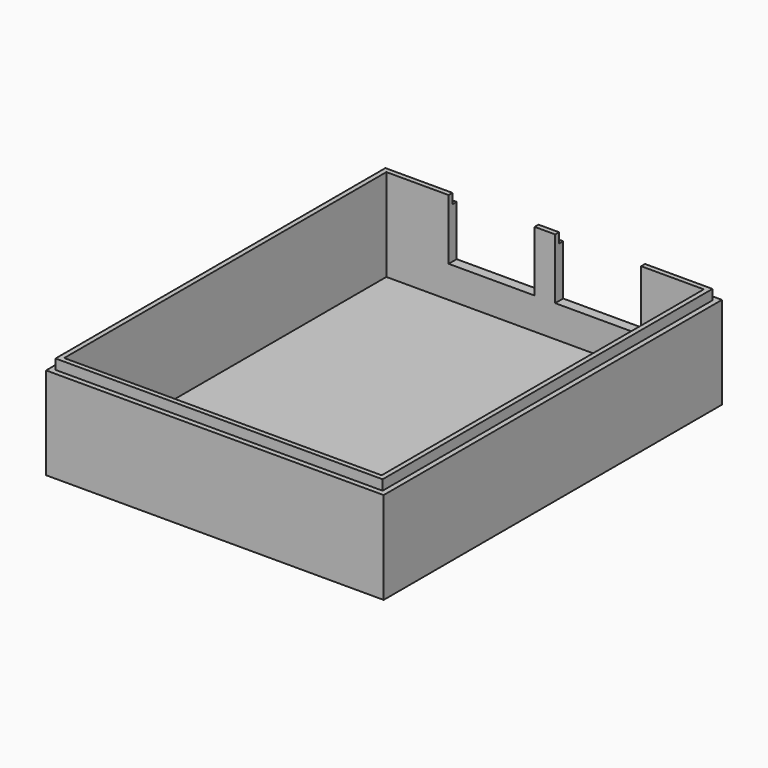
from build123d import *

# Parameters (mm, degrees)
BOX029_W       = 10.25
BOX029_H       = 12
BOX029_DEPTH   = 13
BOX_W          = 10.25
BOX_H          = 12
BOX_DEPTH      = 13
BOX025_W       = 37.83
BOX025_H       = 47.99
BOX025_DEPTH   = 1.2
BOX026_W       = 38.98
BOX026_H       = 49.14
BOX026_DEPTH   = 1.2
BOX027_W       = 37.83
BOX027_H       = 47.99
BOX027_DEPTH   = 1.2
BOX028_W       = 40.25
BOX028_H       = 50.41
BOX028_DEPTH   = 1.2
BOX013_W       = 37.83
BOX013_H       = 47.99
BOX013_DEPTH   = 11
THICKNESS003_T = 1.2


with BuildPart() as cube029:
    # Box029 → Box029 (new body)
    with BuildSketch(Plane(origin=(-11.49, 14, 0.79), x_dir=(1, 0, 0), z_dir=(0, 0, 1))):
        with Locations((5.125, 6)):
            Rectangle(BOX029_W, BOX029_H)
    extrude(amount=BOX029_DEPTH)


with BuildPart() as cube:
    # Box → Box (new body)
    with BuildSketch(Plane(origin=(1.2, 14, 0.79), x_dir=(1, 0, 0), z_dir=(0, 0, 1))):
        with Locations((5.125, 6)):
            Rectangle(BOX_W, BOX_H)
    extrude(amount=BOX_DEPTH)


with BuildPart() as cube025:
    # Box025 → Box025 (new body)
    with BuildSketch(Plane(origin=(-18.91, -24, 0), x_dir=(1, 0, 0), z_dir=(0, 0, 1))):
        with Locations((18.915, 23.995)):
            Rectangle(BOX025_W, BOX025_H)
    extrude(amount=BOX025_DEPTH)


with BuildPart() as cut006:
    # Box026 → Box026 (new body)
    with BuildSketch(Plane(origin=(-19.49, -24.57, 0), x_dir=(1, 0, 0), z_dir=(0, 0, 1))):
        with Locations((19.49, 24.57)):
            Rectangle(BOX026_W, BOX026_H)
    extrude(amount=BOX026_DEPTH)

    # Cut006: cut Cube025
    add(cube025.part, mode=Mode.SUBTRACT)


with BuildPart() as cube027:
    # Box027 → Box027 (new body)
    with BuildSketch(Plane(origin=(-18.91, -24, 0), x_dir=(1, 0, 0), z_dir=(0, 0, 1))):
        with Locations((18.915, 23.995)):
            Rectangle(BOX027_W, BOX027_H)
    extrude(amount=BOX027_DEPTH)


with BuildPart() as cut008:
    # Box028 → Box028 (new body)
    with BuildSketch(Plane(origin=(-20.125, -25.205, 0), x_dir=(1, 0, 0), z_dir=(0, 0, 1))):
        with Locations((20.125, 25.205)):
            Rectangle(BOX028_W, BOX028_H)
    extrude(amount=BOX028_DEPTH)

    # Cut007: cut Cube027
    add(cube027.part, mode=Mode.SUBTRACT)

    # Cut008: cut Cut006
    add(cut006.part, mode=Mode.SUBTRACT)


with BuildPart() as cut008_1:
    # Cut008 placement: moved
    add(cut008.part.moved(Location((0, 0, 6.8))))


with BuildPart() as cut010:
    # Box013 → Box013 (new body)
    with BuildSketch(Plane(origin=(-18.915, -23.995, -3), x_dir=(1, 0, 0), z_dir=(0, 0, 1))):
        with Locations((18.915, 23.995)):
            Rectangle(BOX013_W, BOX013_H)
    extrude(amount=BOX013_DEPTH)


with BuildPart() as cut010_1:
    # BaseFeature001 placement: moved
    add(cut010.part.moved(Location((18.915, 23.995, 3))))

    # Thickness003
    thickness003_openings = [cut010_1.faces().sort_by_distance(p)[0] for p in [
        (18.915, 23.995, 11),
    ]]
    offset(amount=THICKNESS003_T, openings=thickness003_openings, kind=Kind.INTERSECTION)


with BuildPart() as cut010_2:
    # Body001 placement: moved
    add(cut010_1.part.moved(Location((-18.915, -23.995, -3))))

    # Cut: cut Cut008
    add(cut008_1.part, mode=Mode.SUBTRACT)

    # Cut009: cut Cube
    add(cube.part, mode=Mode.SUBTRACT)

    # Cut010: cut Cube029
    add(cube029.part, mode=Mode.SUBTRACT)


solid = cut010_2.part
